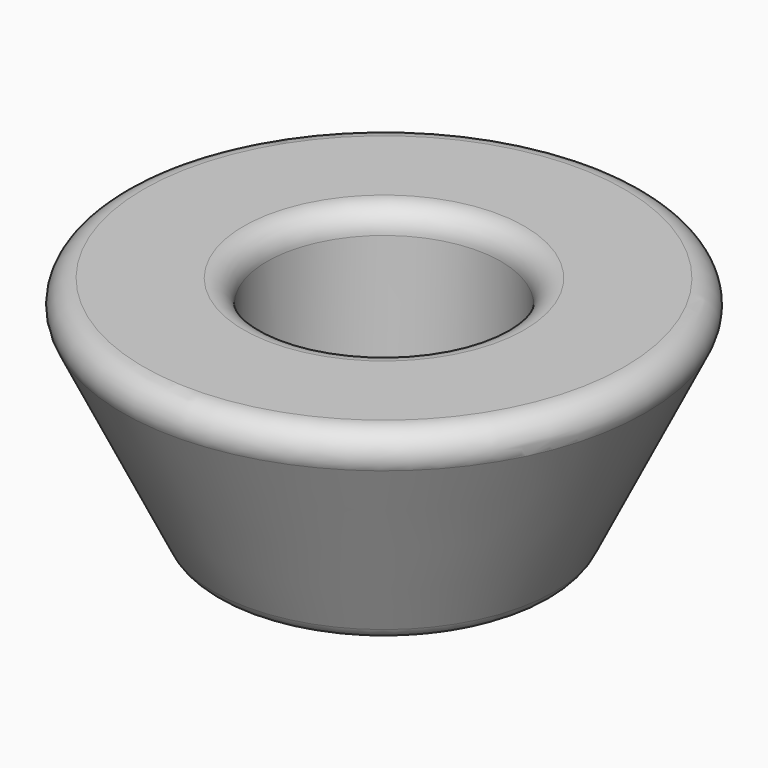
from build123d import *

# Parameters (mm, degrees)
FILLET_R = 0.2


with BuildPart() as part:
    # Sketch → Revolution (revolve)
    with BuildSketch(Plane.XZ):
        Polygon((1, 1), (1, -1), (1.4, -1), (2.375, 1), align=None)
    revolve(axis=Axis((0, 0, 0), (0, 0, 1)))

    # Fillet
    fillet_edges = [part.edges().sort_by_distance(p)[0] for p in [
        (-1, 0, 1),
        (-2.375, 0, 1),
        (-1.4, 0, -1),
        (-1, 0, -1),
    ]]
    fillet(fillet_edges, radius=FILLET_R)


solid = part.part
